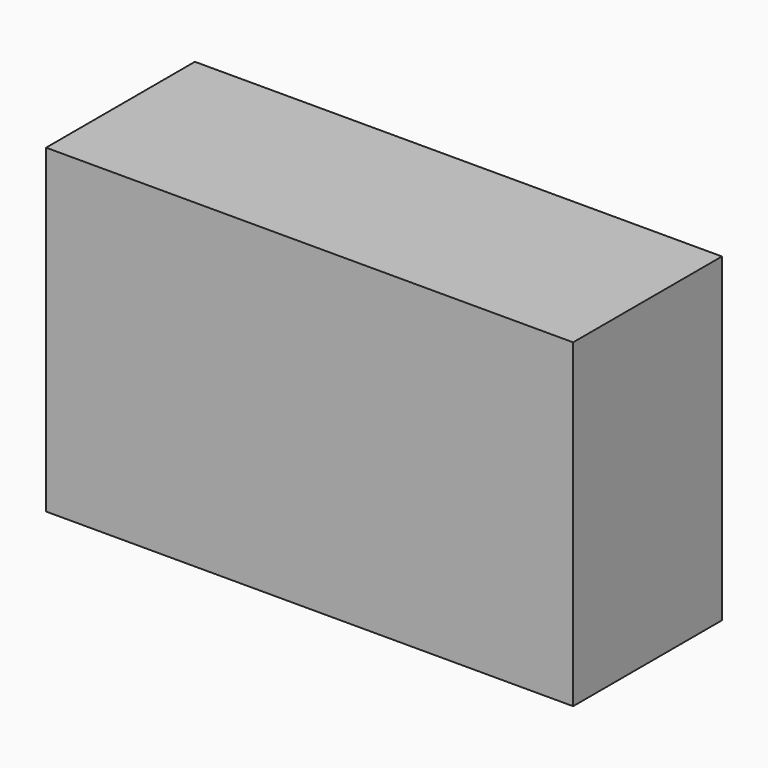
from build123d import *

# Parameters (mm, degrees)
F0_W     = 64.0582405031
F0_H     = 19.4686809555
F0_H_2   = 5.6521994993
F0_H_3   = 13.8164814562
F1_DEPTH = 22.606


with BuildPart() as f1:
    # F0 (on Front) → F1 (new body)
    with BuildSketch(Plane.XZ):
        with Locations((-10.1111549884, 5.149780307)):
            Rectangle(F0_W, F0_H)
        with Locations((-10.1111549884, 17.7102205344)):
            Rectangle(F0_W, F0_H_2)
        with Locations((-10.1111549884, 27.4445610121)):
            Rectangle(F0_W, F0_H_3)
    extrude(amount=-F1_DEPTH)


solid = f1.part
